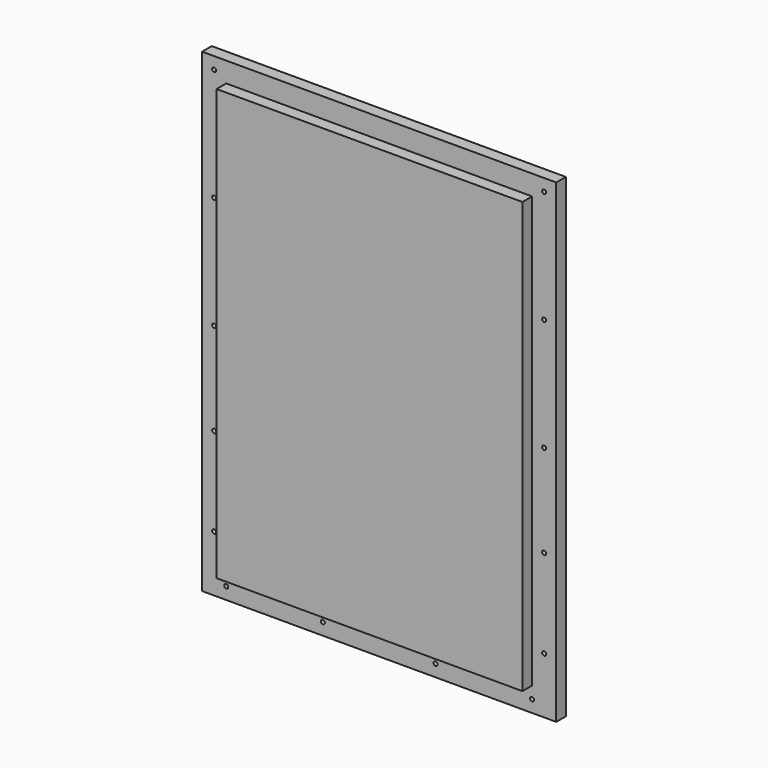
from build123d import *

# Parameters (mm, degrees)
F0_R     = 1.5875
F0_W     = 241.3
F0_H     = 339.725
F0_H_2   = 15.875
F1_DEPTH = 19.05
F2_DEPTH = 9.525


with BuildPart() as f1:
    # F0 (on Front) → F1 (new body)
    with BuildSketch(Plane.XZ):
        Polygon((-120.65, 161.925), (-120.65, 177.8), (-139.7, 177.8), (-139.7, -196.85), (139.7, -196.85), (139.7, 177.8), (120.65, 177.8), (120.65, 161.925), (120.65, -177.8), (-120.65, -177.8), align=None)
        with Locations((-120.65, -187.325)):
            Circle(F0_R, mode=Mode.SUBTRACT)
        with Locations((-130.175, -152.4)):
            Circle(F0_R, mode=Mode.SUBTRACT)
        with Locations((-44.45, -187.325)):
            Circle(F0_R, mode=Mode.SUBTRACT)
        with Locations((-130.175, -82.55)):
            Circle(F0_R, mode=Mode.SUBTRACT)
        with Locations((44.45, -187.325)):
            Circle(F0_R, mode=Mode.SUBTRACT)
        with Locations((120.65, -187.325)):
            Circle(F0_R, mode=Mode.SUBTRACT)
        with Locations((130.175, -152.4)):
            Circle(F0_R, mode=Mode.SUBTRACT)
        with Locations((130.175, -82.55)):
            Circle(F0_R, mode=Mode.SUBTRACT)
        with Locations((-130.175, -9.525)):
            Circle(F0_R, mode=Mode.SUBTRACT)
        with Locations((-130.175, 79.375)):
            Circle(F0_R, mode=Mode.SUBTRACT)
        with Locations((-130.175, 168.275)):
            Circle(F0_R, mode=Mode.SUBTRACT)
        with Locations((130.175, -9.525)):
            Circle(F0_R, mode=Mode.SUBTRACT)
        with Locations((130.175, 79.375)):
            Circle(F0_R, mode=Mode.SUBTRACT)
        with Locations((130.175, 168.275)):
            Circle(F0_R, mode=Mode.SUBTRACT)
        with Locations((0, -7.9375)):
            Rectangle(F0_W, F0_H)
        with Locations((0, 169.8625)):
            Rectangle(F0_W, F0_H_2)
    extrude(amount=-F1_DEPTH)

    # F0 (on Front) → F2 (cut)
    with BuildSketch(Plane.XZ):
        Polygon((-120.65, 161.925), (-120.65, 177.8), (-139.7, 177.8), (-139.7, -196.85), (139.7, -196.85), (139.7, 177.8), (120.65, 177.8), (120.65, 161.925), (120.65, -177.8), (-120.65, -177.8), align=None)
        with Locations((-120.65, -187.325)):
            Circle(F0_R, mode=Mode.SUBTRACT)
        with Locations((-130.175, -152.4)):
            Circle(F0_R, mode=Mode.SUBTRACT)
        with Locations((-44.45, -187.325)):
            Circle(F0_R, mode=Mode.SUBTRACT)
        with Locations((-130.175, -82.55)):
            Circle(F0_R, mode=Mode.SUBTRACT)
        with Locations((44.45, -187.325)):
            Circle(F0_R, mode=Mode.SUBTRACT)
        with Locations((120.65, -187.325)):
            Circle(F0_R, mode=Mode.SUBTRACT)
        with Locations((130.175, -152.4)):
            Circle(F0_R, mode=Mode.SUBTRACT)
        with Locations((130.175, -82.55)):
            Circle(F0_R, mode=Mode.SUBTRACT)
        with Locations((-130.175, -9.525)):
            Circle(F0_R, mode=Mode.SUBTRACT)
        with Locations((-130.175, 79.375)):
            Circle(F0_R, mode=Mode.SUBTRACT)
        with Locations((-130.175, 168.275)):
            Circle(F0_R, mode=Mode.SUBTRACT)
        with Locations((130.175, -9.525)):
            Circle(F0_R, mode=Mode.SUBTRACT)
        with Locations((130.175, 79.375)):
            Circle(F0_R, mode=Mode.SUBTRACT)
        with Locations((130.175, 168.275)):
            Circle(F0_R, mode=Mode.SUBTRACT)
        with Locations((0, 169.8625)):
            Rectangle(F0_W, F0_H_2)
    extrude(amount=-F2_DEPTH, mode=Mode.SUBTRACT)


solid = f1.part
